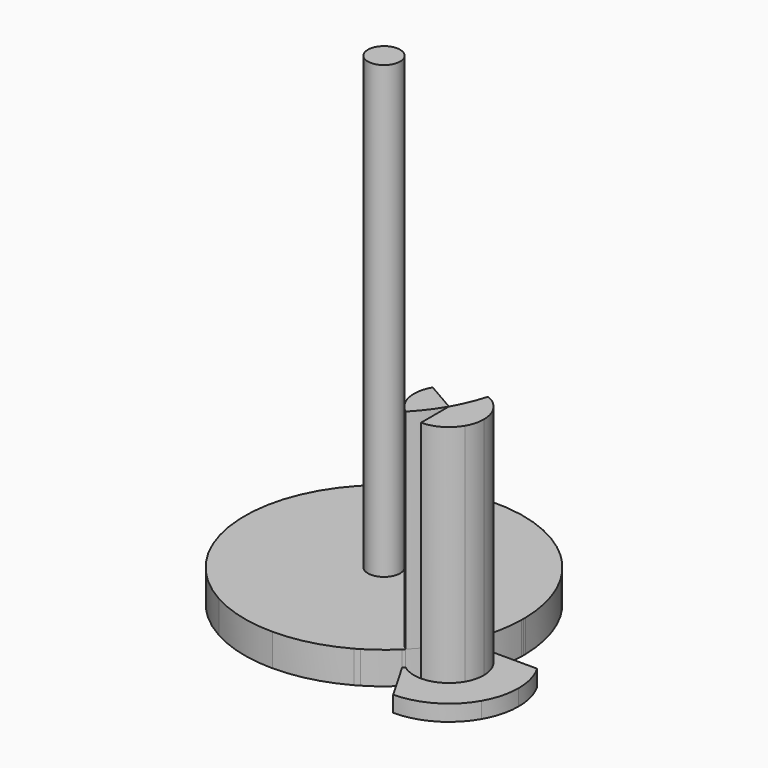
from build123d import *

# Parameters (mm, degrees)
F1_DEPTH = 15
F2_DEPTH = 1
F0_R     = 1
F3_DEPTH = 2
F4_DEPTH = 30


with BuildPart() as f1:
    # F0 (on Top) → F1 (new body)
    with BuildSketch(Plane.XY):
        with BuildLine():
            ThreePointArc((0.8396661785, 1.9956103599), (0.4824414397, 0.9714623049), (0, 0))
            Line((0, 0), (1.875, 1.0825317547))
            ThreePointArc((1.875, 1.0825317547), (1.4320549047, 1.6237976321), (0.8396661785, 1.9956103599))
        make_face()
        with BuildLine():
            Line((0, 0), (0, -2.1650635095))
            ThreePointArc((0, -2.1650635095), (1.0825317923, -1.8749999783), (1.8750000434, -1.0825316796))
            ThreePointArc((1.8750000434, -1.0825316796), (2.0912907706, -0.5603596282), (2.1650635095, 0))
            ThreePointArc((2.1650635095, 0), (2.0912907593, 0.5603596701), (1.875, 1.0825317547))
            Line((1.875, 1.0825317547), (0, 0))
        make_face()
    extrude(amount=F1_DEPTH)


with BuildPart() as f1b:
    # F0 (on Top) → F1, piece 2 (new body)
    with BuildSketch(Plane.XY):
        with BuildLine():
            Line((0, 0), (-1.875, 1.0825317547))
            ThreePointArc((-1.875, 1.0825317547), (-2.1650635095, 4.52e-08), (-1.8750000452, -1.0825316765))
            ThreePointArc((-1.8750000452, -1.0825316765), (-1.623797662, -1.4320548708), (-1.3084161785, -1.7249774213))
            ThreePointArc((-1.3084161785, -1.7249774213), (-0.600090315, -0.9035376951), (0, 0))
        make_face()
    extrude(amount=F1_DEPTH)


with BuildPart() as f2:
    # F0 (on Top) → F2 (new body)
    with BuildSketch(Plane.XY):
        with BuildLine():
            Line((-1.8750000452, -1.0825316765), (-3.75, 2.1650635095))
            ThreePointArc((-3.75, 2.1650635095), (-4.3301270189, -7.9e-09), (-3.7499999921, -2.1650635231))
            ThreePointArc((-3.7499999921, -2.1650635231), (-3.4232659796, -2.6516504357), (-3.0338137289, -3.0896560097))
            ThreePointArc((-3.0338137289, -3.0896560097), (-2.1966991411, -2.5164049499), (-1.4323725422, -1.8491850005))
            Line((-1.4323725422, -1.8491850005), (-1.8750000452, -1.0825316765))
        make_face()
        with BuildLine():
            Line((-1.875, 1.0825317547), (-3.75, 2.1650635095))
            Line((-3.75, 2.1650635095), (-1.8750000452, -1.0825316765))
            ThreePointArc((-1.8750000452, -1.0825316765), (-2.1650635095, 4.52e-08), (-1.875, 1.0825317547))
        make_face()
        with BuildLine():
            Line((0, 2.1650635095), (-3.75, 2.1650635095))
            Line((-3.75, 2.1650635095), (-1.875, 1.0825317547))
            ThreePointArc((-1.875, 1.0825317547), (-1.0825317547, 1.875), (0, 2.1650635095))
        make_face()
        with BuildLine():
            ThreePointArc((4.5e-08, 4.3301270189), (-2.16506349, 3.7500000112), (-3.75, 2.1650635095))
            Line((-3.75, 2.1650635095), (0, 2.1650635095))
            Line((0, 2.1650635095), (0.8852549156, 2.1650635095))
            ThreePointArc((0.8852549156, 2.1650635095), (1.0809210423, 3.1605997356), (1.1588137289, 4.1721877644))
            ThreePointArc((1.1588137289, 4.1721877644), (0.5847636639, 4.2904605181), (4.5e-08, 4.3301270189))
        make_face()
        with BuildLine():
            Line((0, 0), (-1.875, 1.0825317547))
            ThreePointArc((-1.875, 1.0825317547), (-2.1650635095, 4.52e-08), (-1.8750000452, -1.0825316765))
            ThreePointArc((-1.8750000452, -1.0825316765), (-1.623797662, -1.4320548708), (-1.3084161785, -1.7249774213))
            ThreePointArc((-1.3084161785, -1.7249774213), (-0.600090315, -0.9035376951), (0, 0))
        make_face()
    extrude(amount=F2_DEPTH)


with BuildPart() as f2b:
    # F0 (on Top) → F2, piece 2 (new body)
    with BuildSketch(Plane.XY):
        with BuildLine():
            Line((1.875, 1.0825317547), (3.75, 2.1650635095))
            Line((3.75, 2.1650635095), (0.8852549156, 2.1650635095))
            ThreePointArc((0.8852549156, 2.1650635095), (0.8628897514, 2.0802214639), (0.8396661785, 1.9956103599))
            ThreePointArc((0.8396661785, 1.9956103599), (1.4320549047, 1.6237976321), (1.875, 1.0825317547))
        make_face()
        with BuildLine():
            ThreePointArc((2.1650635095, 0), (2.0912907706, -0.5603596282), (1.8750000434, -1.0825316796))
            Line((1.8750000434, -1.0825316796), (3.75, 2.1650635095))
            Line((3.75, 2.1650635095), (1.875, 1.0825317547))
            ThreePointArc((1.875, 1.0825317547), (2.0912907593, 0.5603596701), (2.1650635095, 0))
        make_face()
        with BuildLine():
            Line((1.8750000434, -1.0825316796), (0, -4.3301270189))
            ThreePointArc((0, -4.3301270189), (2.1650634514, -3.7500000335), (3.7499999329, -2.1650636256))
            ThreePointArc((3.7499999329, -2.1650636256), (4.1825815013, -1.120719405), (4.3301270189, 0))
            ThreePointArc((4.3301270189, 0), (4.1825815187, 1.1207193402), (3.75, 2.1650635095))
            Line((3.75, 2.1650635095), (1.8750000434, -1.0825316796))
        make_face()
        with BuildLine():
            Line((0, -2.1650635095), (0, -4.3301270189))
            Line((0, -4.3301270189), (1.8750000434, -1.0825316796))
            ThreePointArc((1.8750000434, -1.0825316796), (1.0825317923, -1.8749999783), (0, -2.1650635095))
        make_face()
        with BuildLine():
            Line((-1.4323725422, -1.8491850005), (0, -4.3301270189))
            Line((0, -4.3301270189), (0, -2.1650635095))
            ThreePointArc((0, -2.1650635095), (-0.6902225477, -2.0520947431), (-1.3084161785, -1.7249774213))
            ThreePointArc((-1.3084161785, -1.7249774213), (-1.3700797576, -1.7873951773), (-1.4323725422, -1.8491850005))
        make_face()
        with BuildLine():
            Line((0, 0), (0, -2.1650635095))
            ThreePointArc((0, -2.1650635095), (1.0825317923, -1.8749999783), (1.8750000434, -1.0825316796))
            ThreePointArc((1.8750000434, -1.0825316796), (2.0912907706, -0.5603596282), (2.1650635095, 0))
            ThreePointArc((2.1650635095, 0), (2.0912907593, 0.5603596701), (1.875, 1.0825317547))
            Line((1.875, 1.0825317547), (0, 0))
        make_face()
        with BuildLine():
            ThreePointArc((0.8396661785, 1.9956103599), (0.4824414397, 0.9714623049), (0, 0))
            Line((0, 0), (1.875, 1.0825317547))
            ThreePointArc((1.875, 1.0825317547), (1.4320549047, 1.6237976321), (0.8396661785, 1.9956103599))
        make_face()
    extrude(amount=F2_DEPTH)


with BuildPart() as f3:
    # F0 (on Top) → F3 (new body)
    with BuildSketch(Plane.XY):
        with BuildLine():
            ThreePointArc((-11.6926274578, -3.2475952642), (-10.9473040653, -1.7098036264), (-9.6650635095, -0.5801270189))
            Line((-9.6650635095, -0.5801270189), (-15, 8.6602540378))
            ThreePointArc((-15, 8.6602540378), (-15.8443755289, 2.0124995611), (-11.6926274578, -3.2475952642))
        make_face()
        with BuildLine():
            ThreePointArc((-9.6650635095, -0.5801270189), (-7.5, 0), (-5.3349364905, -0.5801270189))
            Line((-5.3349364905, -0.5801270189), (-3.75, 2.1650635095))
            Line((-3.75, 2.1650635095), (-2.1650635095, 4.9102540378))
            ThreePointArc((-2.1650635095, 4.9102540378), (-3.75, 6.4951905284), (-4.3301270189, 8.6602540378))
            Line((-4.3301270189, 8.6602540378), (-15, 8.6602540378))
            Line((-15, 8.6602540378), (-9.6650635095, -0.5801270189))
        make_face()
        with Locations((-7.5, 4.3301270189)):
            Circle(F0_R, mode=Mode.SUBTRACT)
        with BuildLine():
            ThreePointArc((-3.0338137289, 11.7499100475), (-9.6650635095, 12.7153819345), (-15, 8.6602540378))
            Line((-15, 8.6602540378), (-4.3301270189, 8.6602540378))
            ThreePointArc((-4.3301270189, 8.6602540378), (-3.9929186567, 10.3355452367), (-3.0338137289, 11.7499100475))
        make_face()
        with BuildLine():
            ThreePointArc((-3.0338137289, 11.7499100475), (-3.9929186567, 10.3355452367), (-4.3301270189, 8.6602540378))
            Line((-4.3301270189, 8.6602540378), (0, 8.6602540378))
            ThreePointArc((0, 8.6602540378), (-1.3206879806, 10.3977544767), (-3.0338137289, 11.7499100475))
        make_face()
        with BuildLine():
            ThreePointArc((-4.3301270189, 8.6602540378), (-3.75, 6.4951905284), (-2.1650635095, 4.9102540378))
            Line((-2.1650635095, 4.9102540378), (0, 8.6602540378))
            Line((0, 8.6602540378), (-4.3301270189, 8.6602540378))
        make_face()
        with BuildLine():
            Line((0, 8.6602540378), (-2.1650635095, 4.9102540378))
            ThreePointArc((-2.1650635095, 4.9102540378), (-1.1207193185, 4.4776725133), (4.5e-08, 4.3301270189))
            ThreePointArc((4.5e-08, 4.3301270189), (0.5847636639, 4.3697935197), (1.1588137289, 4.4880662734))
            ThreePointArc((1.1588137289, 4.4880662734), (0.8443755289, 6.6477544767), (0, 8.6602540378))
        make_face()
        with BuildLine():
            Line((-2.1650635095, 4.9102540378), (-3.75, 2.1650635095))
            ThreePointArc((-3.75, 2.1650635095), (-2.16506349, 3.7500000112), (4.5e-08, 4.3301270189))
            ThreePointArc((4.5e-08, 4.3301270189), (-1.1207193185, 4.4776725133), (-2.1650635095, 4.9102540378))
        make_face()
        with BuildLine():
            ThreePointArc((4.5e-08, 4.3301270189), (-2.16506349, 3.7500000112), (-3.75, 2.1650635095))
            Line((-3.75, 2.1650635095), (0, 2.1650635095))
            Line((0, 2.1650635095), (0.8852549156, 2.1650635095))
            ThreePointArc((0.8852549156, 2.1650635095), (1.0809210423, 3.1605997356), (1.1588137289, 4.1721877644))
            ThreePointArc((1.1588137289, 4.1721877644), (0.5847636639, 4.2904605181), (4.5e-08, 4.3301270189))
        make_face()
        with BuildLine():
            Line((0, 2.1650635095), (-3.75, 2.1650635095))
            Line((-3.75, 2.1650635095), (-1.875, 1.0825317547))
            ThreePointArc((-1.875, 1.0825317547), (-1.0825317547, 1.875), (0, 2.1650635095))
        make_face()
        with BuildLine():
            Line((-1.875, 1.0825317547), (-3.75, 2.1650635095))
            Line((-3.75, 2.1650635095), (-1.8750000452, -1.0825316765))
            ThreePointArc((-1.8750000452, -1.0825316765), (-2.1650635095, 4.52e-08), (-1.875, 1.0825317547))
        make_face()
        with BuildLine():
            Line((-3.75, 2.1650635095), (-5.3349364905, -0.5801270189))
            ThreePointArc((-5.3349364905, -0.5801270189), (-4.4381378159, -1.268264846), (-3.7499999921, -2.1650635231))
            ThreePointArc((-3.7499999921, -2.1650635231), (-4.3301270189, -7.9e-09), (-3.75, 2.1650635095))
        make_face()
        with BuildLine():
            Line((-1.8750000452, -1.0825316765), (-3.75, 2.1650635095))
            ThreePointArc((-3.75, 2.1650635095), (-4.3301270189, -7.9e-09), (-3.7499999921, -2.1650635231))
            ThreePointArc((-3.7499999921, -2.1650635231), (-3.4232659796, -2.6516504357), (-3.0338137289, -3.0896560097))
            ThreePointArc((-3.0338137289, -3.0896560097), (-2.1966991411, -2.5164049499), (-1.4323725422, -1.8491850005))
            Line((-1.4323725422, -1.8491850005), (-1.8750000452, -1.0825316765))
        make_face()
        with BuildLine():
            Line((-5.3349364905, -0.5801270189), (-7.5, -4.3301270189))
            ThreePointArc((-7.5, -4.3301270189), (-5.3349364905, -4.0551278967), (-3.3073725422, -3.2475952642))
            ThreePointArc((-3.3073725422, -3.2475952642), (-3.491970371, -2.6913169345), (-3.7499999921, -2.1650635231))
            ThreePointArc((-3.7499999921, -2.1650635231), (-4.4381378159, -1.268264846), (-5.3349364905, -0.5801270189))
        make_face()
        with BuildLine():
            Line((-9.6650635095, -0.5801270189), (-7.5, -4.3301270189))
            Line((-7.5, -4.3301270189), (-5.3349364905, -0.5801270189))
            ThreePointArc((-5.3349364905, -0.5801270189), (-7.5, 0), (-9.6650635095, -0.5801270189))
        make_face()
        with BuildLine():
            ThreePointArc((-11.6926274578, -3.2475952642), (-9.6650635095, -4.0551278967), (-7.5, -4.3301270189))
            Line((-7.5, -4.3301270189), (-9.6650635095, -0.5801270189))
            ThreePointArc((-9.6650635095, -0.5801270189), (-10.9473040653, -1.7098036264), (-11.6926274578, -3.2475952642))
        make_face()
        with BuildLine():
            ThreePointArc((1.1588137289, 4.4880662734), (0.5847636639, 4.3697935197), (4.5e-08, 4.3301270189))
            ThreePointArc((4.5e-08, 4.3301270189), (0.5847636639, 4.2904605181), (1.1588137289, 4.1721877644))
            ThreePointArc((1.1588137289, 4.1721877644), (1.1598939531, 4.2511541081), (1.1602540378, 4.3301270189))
            ThreePointArc((1.1602540378, 4.3301270189), (1.1598939531, 4.4090999298), (1.1588137289, 4.4880662734))
        make_face()
        with BuildLine():
            ThreePointArc((0, 2.1650635095), (-1.0825317547, 1.875), (-1.875, 1.0825317547))
            Line((-1.875, 1.0825317547), (0, 0))
            ThreePointArc((0, 0), (0.4824414397, 0.9714623049), (0.8396661785, 1.9956103599))
            ThreePointArc((0.8396661785, 1.9956103599), (0.428297111, 2.1222774523), (0, 2.1650635095))
        make_face()
        with BuildLine():
            Line((0.8852549156, 2.1650635095), (0, 2.1650635095))
            ThreePointArc((0, 2.1650635095), (0.428297111, 2.1222774523), (0.8396661785, 1.9956103599))
            ThreePointArc((0.8396661785, 1.9956103599), (0.8628897514, 2.0802214639), (0.8852549156, 2.1650635095))
        make_face()
        with BuildLine():
            Line((0, 0), (-1.875, 1.0825317547))
            ThreePointArc((-1.875, 1.0825317547), (-2.1650635095, 4.52e-08), (-1.8750000452, -1.0825316765))
            ThreePointArc((-1.8750000452, -1.0825316765), (-1.623797662, -1.4320548708), (-1.3084161785, -1.7249774213))
            ThreePointArc((-1.3084161785, -1.7249774213), (-0.600090315, -0.9035376951), (0, 0))
        make_face()
        with BuildLine():
            ThreePointArc((-3.7499999921, -2.1650635231), (-3.491970371, -2.6913169345), (-3.3073725422, -3.2475952642))
            ThreePointArc((-3.3073725422, -3.2475952642), (-3.1698729811, -3.1698729811), (-3.0338137289, -3.0896560097))
            ThreePointArc((-3.0338137289, -3.0896560097), (-3.4232659796, -2.6516504357), (-3.7499999921, -2.1650635231))
        make_face()
        with BuildLine():
            Line((-1.8750000452, -1.0825316765), (-1.4323725422, -1.8491850005))
            ThreePointArc((-1.4323725422, -1.8491850005), (-1.3700797576, -1.7873951773), (-1.3084161785, -1.7249774213))
            ThreePointArc((-1.3084161785, -1.7249774213), (-1.623797662, -1.4320548708), (-1.8750000452, -1.0825316765))
        make_face()
        with Locations((-7.5, 4.3301270189)):
            Circle(F0_R)
    extrude(amount=F3_DEPTH)


with BuildPart() as f4:
    # F0 (on Top) → F4 (new body)
    with BuildSketch(Plane.XY):
        with Locations((-7.5, 4.3301270189)):
            Circle(F0_R)
    extrude(amount=F4_DEPTH)


solid = Compound([f1.part, f1b.part, f2.part, f2b.part, f3.part, f4.part])
